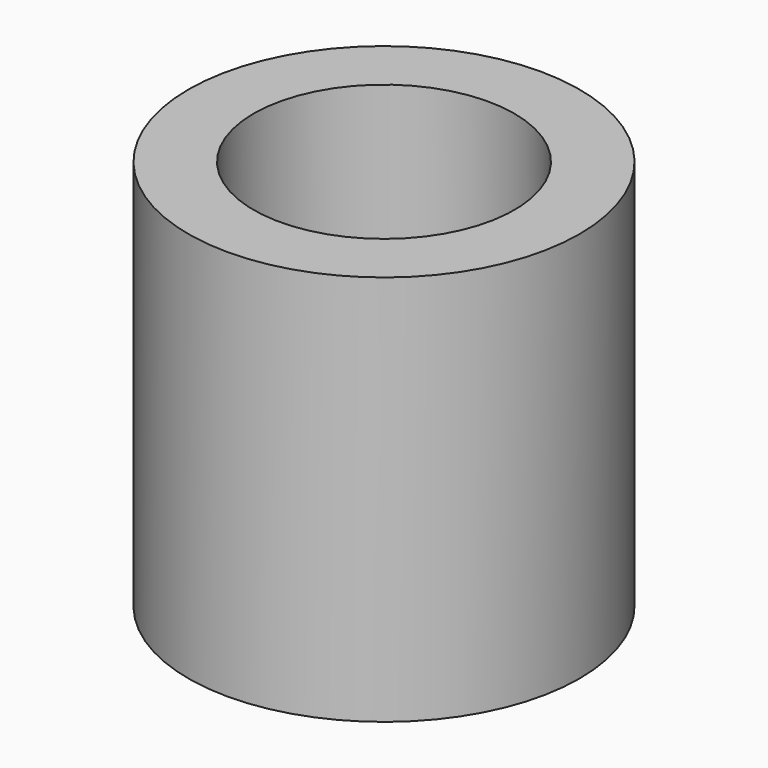
from build123d import *

# Parameters (mm, degrees)
F0_R     = 7.5
F1_DEPTH = 7.5
F3_D     = 10
F3_DEPTH = 25


with BuildPart() as f1:
    # F0 (on Top) → F1 (new body, symmetric)
    with BuildSketch(Plane.XY):
        Circle(F0_R)
    extrude(amount=F1_DEPTH, both=True)

    # F3
    with Locations(Plane.XY.offset(7.5)):
        with Locations((0, 0)):
            Hole(F3_D / 2, depth=F3_DEPTH)


solid = f1.part
